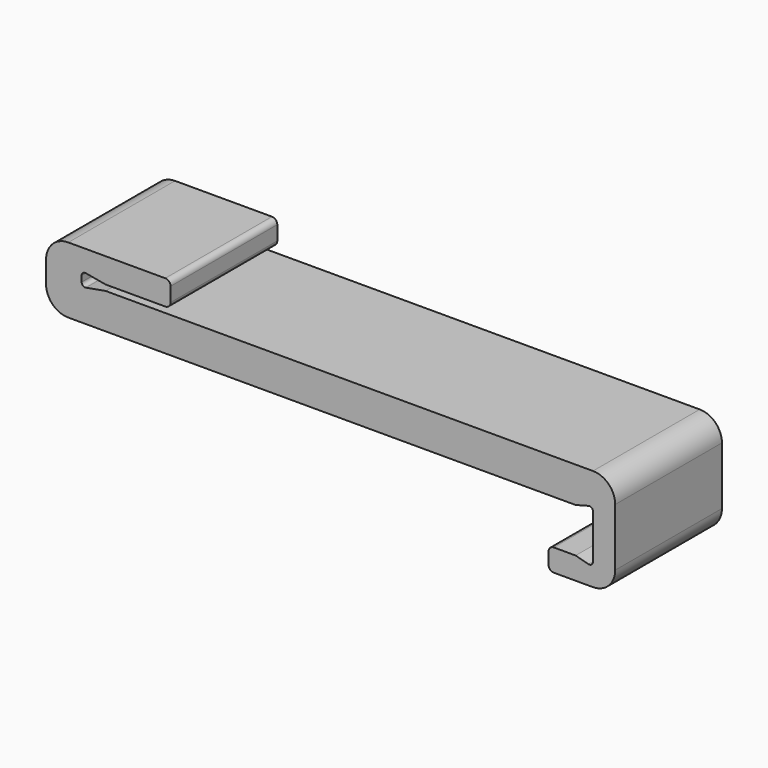
from build123d import *

# Parameters (mm, degrees)
F1_DEPTH = 19.05


with BuildPart() as f1:
    # F0 (on Front) → F1 (new body)
    with BuildSketch(Plane.XZ):
        with BuildLine():
            Line((3.433455, 0.8128), (11.938, 0.8128))
            ThreePointArc((11.938, 0.8128), (12.476815, 1.035985), (12.7, 1.5748))
            Line((12.7, 1.5748), (12.7, 3.6068))
            ThreePointArc((12.7, 3.6068), (12.476815, 4.145615), (11.938, 4.3688))
            Line((11.938, 4.3688), (-1.905, 4.3688))
            ThreePointArc((-1.905, 4.3688), (-4.150064, 3.438864), (-5.08, 1.1938))
            Line((-5.08, 1.1938), (-5.08, -1.905))
            ThreePointArc((-5.08, -1.905), (-4.150064, -4.150064), (-1.905, -5.08))
            Line((-1.905, -5.08), (70.554239, -5.08))
            Line((70.554239, -5.08), (72.38552, -4.58931))
            ThreePointArc((72.38552, -4.58931), (72.826251, -4.676977), (73.025, -5.08))
            Line((73.025, -5.08), (73.025, -11.43))
            ThreePointArc((73.025, -11.43), (72.826251, -11.833023), (72.38552, -11.92069))
            Line((72.38552, -11.92069), (70.554239, -11.43))
            Line((70.554239, -11.43), (67.437, -11.43))
            ThreePointArc((67.437, -11.43), (66.898185, -11.653185), (66.675, -12.192))
            Line((66.675, -12.192), (66.675, -13.843))
            ThreePointArc((66.675, -13.843), (66.898185, -14.381815), (67.437, -14.605))
            Line((67.437, -14.605), (73.025, -14.605))
            ThreePointArc((73.025, -14.605), (75.270064, -13.675064), (76.2, -11.43))
            Line((76.2, -11.43), (76.2, -3.175))
            ThreePointArc((76.2, -3.175), (75.270064, -0.929936), (73.025, 0))
            Line((73.025, 0), (3.433455, 0))
            Line((3.433455, 0), (0.596213, -0.500282))
            ThreePointArc((0.596213, -0.500282), (0.181464, -0.389151), (0, 0))
            Line((0, 0), (0, 0.8128))
            ThreePointArc((0, 0.8128), (0.181464, 1.201951), (0.596213, 1.313082))
            Line((0.596213, 1.313082), (3.433455, 0.8128))
        make_face()
    extrude(amount=F1_DEPTH)


solid = f1.part
